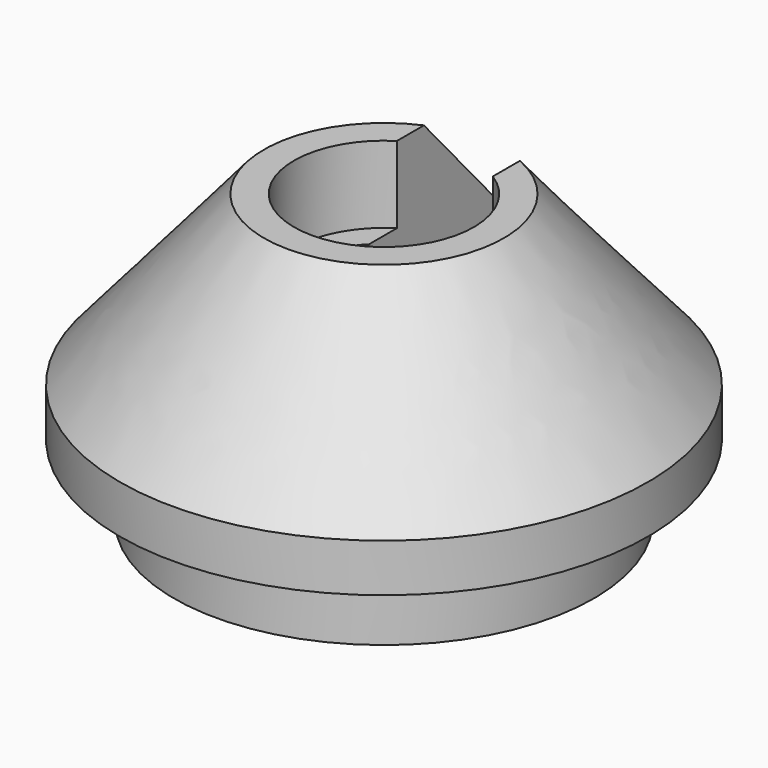
from build123d import *

# Parameters (mm, degrees)
F1_DEPTH = 5
F5_DEPTH = 3
F6_DEPTH = 3.2
F7_DEPTH = 7


with BuildPart() as f1:
    # F0 (on Top) → F1 (new body)
    with BuildSketch(Plane.XY):
        with BuildLine():
            Line((-2, 7.228416), (-2, 8.518363))
            ThreePointArc((-2, 8.518363), (0, -8.75), (2, 8.518363))
            Line((2, 8.518363), (2, 7.228416))
            ThreePointArc((2, 7.228416), (5.968668, 4.541476), (7.5, 0))
            ThreePointArc((7.5, 0), (-4.541476, -5.968668), (-2, 7.228416))
        make_face()
        with BuildLine():
            Line((-2, 8.518363), (-2, 10.816654))
            ThreePointArc((-2, 10.816654), (0, -11), (2, 10.816654))
            Line((2, 10.816654), (2, 8.518363))
            ThreePointArc((2, 8.518363), (0, -8.75), (-2, 8.518363))
        make_face()
        with BuildLine():
            Line((-2, 0), (-2, 7.228416))
            ThreePointArc((-2, 7.228416), (-4.541476, -5.968668), (7.5, 0))
            ThreePointArc((7.5, 0), (5.968668, 4.541476), (2, 7.228416))
            Line((2, 7.228416), (2, 0))
            ThreePointArc((2, 0), (0, -2), (-2, 0))
        make_face()
    extrude(amount=F1_DEPTH)

    # F1_face (on face) → F4 section 0
    with BuildSketch(Plane(origin=(0, -0.708891, 5), x_dir=(1, 0, 0), z_dir=(0, 0, 1))):
        with BuildLine():
            Line((-2, 0.708891), (-2, 11.525545))
            ThreePointArc((-2, 11.525545), (0, -10.291109), (2, 11.525545))
            Line((2, 11.525545), (2, 0.708891))
            ThreePointArc((2, 0.708891), (0, -1.291109), (-2, 0.708891))
        make_face()
    # F3 (on offset) → F4 section 1
    with BuildSketch(Plane.XY.offset(12)):
        with BuildLine():
            ThreePointArc((2, 3.172144), (0, -3.75), (-2, 3.172144))
            Line((-2, 3.172144), (-2, 4.582576))
            ThreePointArc((-2, 4.582576), (0, -5), (2, 4.582576))
            Line((2, 4.582576), (2, 3.172144))
        make_face()
    loft()

    # F0 (on Top) → F5 (cut)
    with BuildSketch(Plane.XY):
        with BuildLine():
            Line((-2, 8.518363), (-2, 10.816654))
            ThreePointArc((-2, 10.816654), (0, -11), (2, 10.816654))
            Line((2, 10.816654), (2, 8.518363))
            ThreePointArc((2, 8.518363), (0, -8.75), (-2, 8.518363))
        make_face()
    extrude(amount=F5_DEPTH, mode=Mode.SUBTRACT)

    # F3 (on offset) → F6 (cut)
    with BuildSketch(Plane.XY.offset(12)):
        with BuildLine():
            ThreePointArc((2, 0), (0, -2), (-2, 0))
            Line((-2, 0), (-2, 3.172144))
            ThreePointArc((-2, 3.172144), (0, -3.75), (2, 3.172144))
            Line((2, 3.172144), (2, 0))
        make_face()
    extrude(amount=-F6_DEPTH, mode=Mode.SUBTRACT)

    # F0 (on Top) → F7 (cut)
    with BuildSketch(Plane.XY):
        with BuildLine():
            Line((-2, 0), (-2, 7.228416))
            ThreePointArc((-2, 7.228416), (-4.541476, -5.968668), (7.5, 0))
            ThreePointArc((7.5, 0), (5.968668, 4.541476), (2, 7.228416))
            Line((2, 7.228416), (2, 0))
            ThreePointArc((2, 0), (0, -2), (-2, 0))
        make_face()
    extrude(amount=F7_DEPTH, mode=Mode.SUBTRACT)


solid = f1.part
